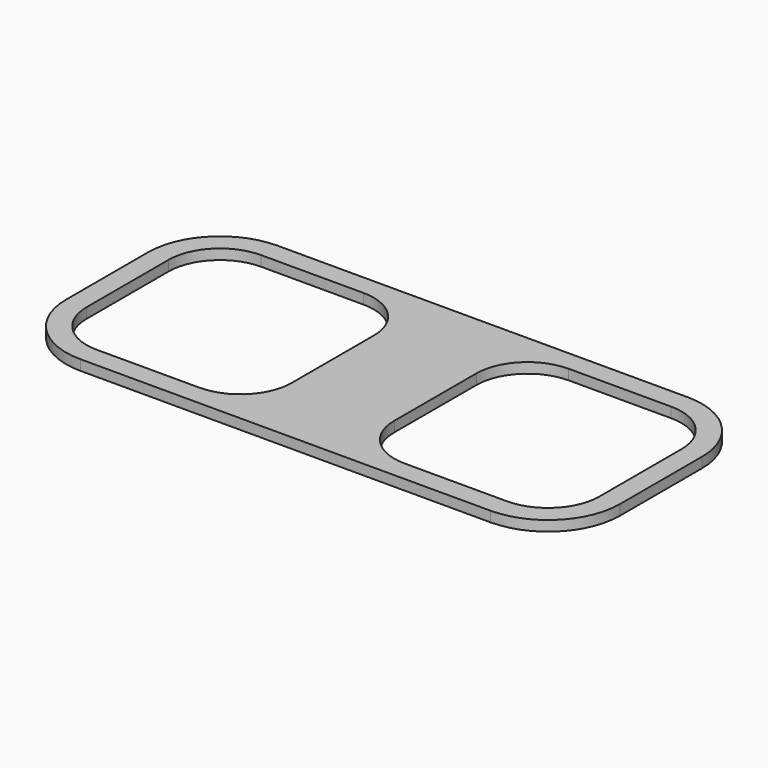
from build123d import *

# Parameters (mm, degrees)
F1_DEPTH = 0.5


with BuildPart() as f1:
    # F0 (on Top) → F1 (new body)
    with BuildSketch(Plane.XY):
        with BuildLine():
            Line((-13.5, 2.5), (-13.5, 0))
            Line((-13.5, 0), (-13.5, -2.5))
            ThreePointArc((-13.5, -2.5), (-12.474874, -4.974874), (-10, -6))
            Line((-10, -6), (10, -6))
            ThreePointArc((10, -6), (12.474874, -4.974874), (13.5, -2.5))
            Line((13.5, -2.5), (13.5, 2.5))
            ThreePointArc((13.5, 2.5), (12.474874, 4.974874), (10, 6))
            Line((10, 6), (-10, 6))
            ThreePointArc((-10, 6), (-12.474874, 4.974874), (-13.5, 2.5))
        make_face()
        with BuildLine():
            Line((-2.5, 2.5), (-2.5, 0))
            Line((-2.5, 0), (-2.5, -2.5))
            ThreePointArc((-2.5, -2.5), (-3.232233, -4.267767), (-5, -5))
            Line((-5, -5), (-10, -5))
            ThreePointArc((-10, -5), (-11.767767, -4.267767), (-12.5, -2.5))
            Line((-12.5, -2.5), (-12.5, 0))
            Line((-12.5, 0), (-12.5, 2.5))
            ThreePointArc((-12.5, 2.5), (-11.767767, 4.267767), (-10, 5))
            Line((-10, 5), (-5, 5))
            ThreePointArc((-5, 5), (-3.232233, 4.267767), (-2.5, 2.5))
        make_face(mode=Mode.SUBTRACT)
        with BuildLine():
            Line((2.5, -2.5), (2.5, 0))
            Line((2.5, 0), (2.5, 2.5))
            ThreePointArc((2.5, 2.5), (3.232233, 4.267767), (5, 5))
            Line((5, 5), (10, 5))
            ThreePointArc((10, 5), (11.767767, 4.267767), (12.5, 2.5))
            Line((12.5, 2.5), (12.5, -2.5))
            ThreePointArc((12.5, -2.5), (11.767767, -4.267767), (10, -5))
            Line((10, -5), (5, -5))
            ThreePointArc((5, -5), (3.232233, -4.267767), (2.5, -2.5))
        make_face(mode=Mode.SUBTRACT)
    extrude(amount=F1_DEPTH)


solid = f1.part
